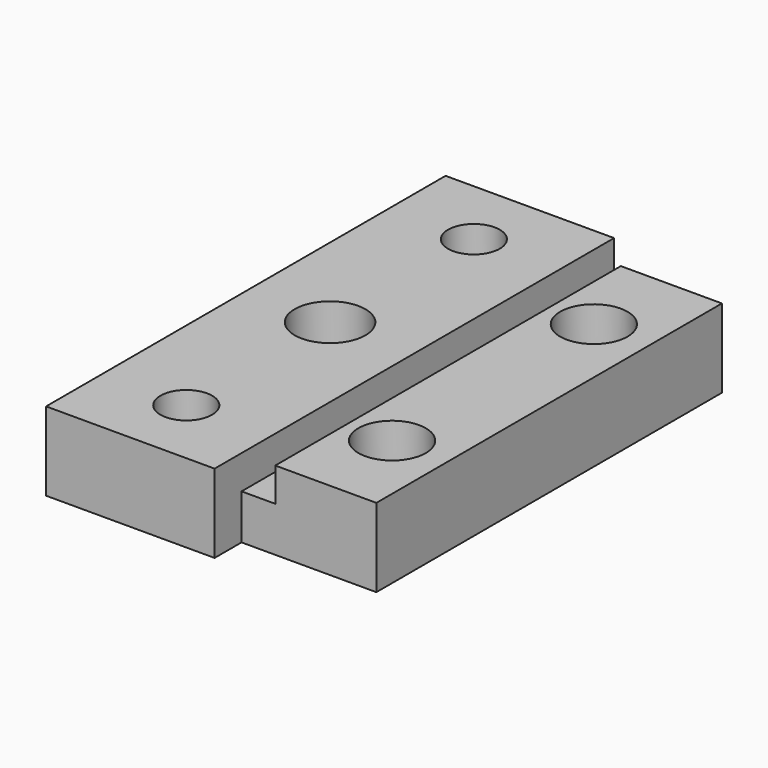
from build123d import *

# Parameters (mm, degrees)
TABPAD_DEPTH               = 7
LIPPOCKETSKETCH001_W       = 3
LIPPOCKETSKETCH001_H       = 38.45
LIPGROOVEPOCKET_DEPTH      = 3
RAILHOLESSKETCH_R          = 2.3
RAILHOLESSKETCH_R_2        = 3.15
RAILHOLESPOCKET_DEPTH      = 7.001
OBJ1      = 1.6
OBJ2  = 7.001
TABCOUNTERBORESKETCH_R     = 3
TABCOUNTERBOREPOCKET_DEPTH = 3.5


with BuildPart() as part:
    # TabProfileSketch → TabPad (new body)
    with BuildSketch(Plane.XY):
        Polygon((-15, 0), (0, 0), (0, 3), (12, 3), (12, 41.45), (0, 41.45), (0, 44.45), (-15, 44.45), align=None)
    extrude(amount=-TABPAD_DEPTH)

    # LipPocketSketch001 → LipGroovePocket (cut)
    with BuildSketch(Plane.XY):
        with Locations((1.5, 22.225)):
            Rectangle(LIPPOCKETSKETCH001_W, LIPPOCKETSKETCH001_H)
    extrude(amount=-LIPGROOVEPOCKET_DEPTH, mode=Mode.SUBTRACT)

    # RailHolesSketch → RailHolesPocket (cut, through all)
    with BuildSketch(Plane.XY):
        with Locations((-7.5, 6.225)):
            Circle(RAILHOLESSKETCH_R)
        with Locations((-7.5, 22.225)):
            Circle(RAILHOLESSKETCH_R_2)
        with Locations((-7.5, 38.225)):
            Circle(RAILHOLESSKETCH_R)
    extrude(amount=-RAILHOLESPOCKET_DEPTH, mode=Mode.SUBTRACT)

    with BuildSketch(Plane.XY):
        with Locations((7, 11)):
            Circle(OBJ1)
        with Locations((7, 33.45)):
            Circle(OBJ1)
    extrude(amount=-OBJ2, mode=Mode.SUBTRACT)

    # TabCounterboreSketch → TabCounterborePocket (cut)
    with BuildSketch(Plane.XY):
        with Locations((7, 11)):
            Circle(TABCOUNTERBORESKETCH_R)
        with Locations((7, 33.45)):
            Circle(TABCOUNTERBORESKETCH_R)
    extrude(amount=-TABCOUNTERBOREPOCKET_DEPTH, mode=Mode.SUBTRACT)


solid = part.part
